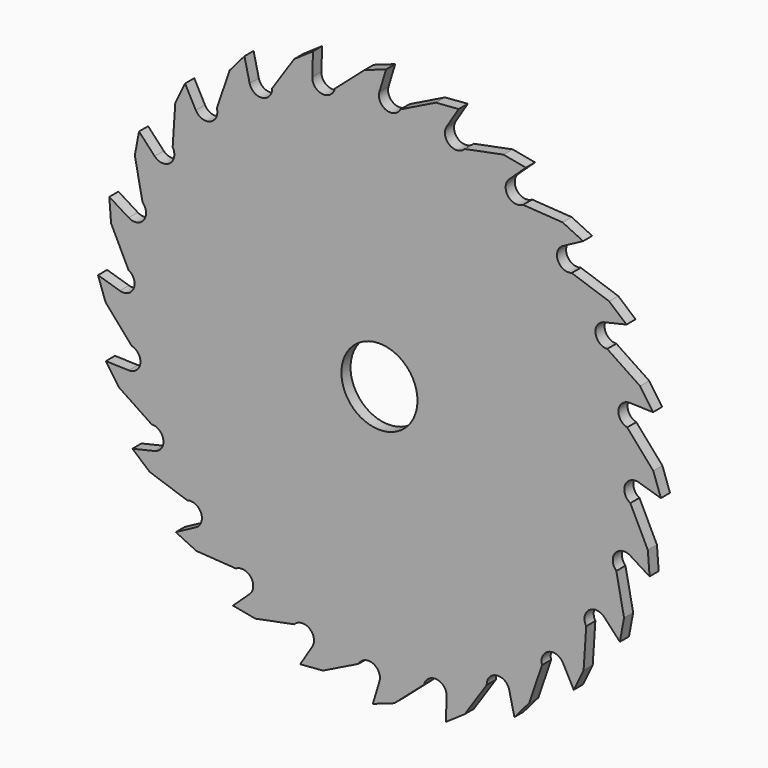
from build123d import *

# Parameters (mm, degrees)
F0_R     = 10
F1_DEPTH = 3


with BuildPart() as f1:
    # F0 (on Front) → F1 (new body)
    with BuildSketch(Plane.XZ):
        with BuildLine():
            Line((-3.915787, 72.004935), (-11.747279, 65.150152))
            ThreePointArc((-11.747279, 65.150152), (-15.061523, 62.859987), (-17.66665, 65.932834))
            Line((-17.66665, 65.932834), (-17.469185, 71.929583))
            Line((-17.469185, 71.929583), (-22.418608, 68.537946))
            Line((-22.418608, 68.537946), (-28.209101, 59.889795))
            ThreePointArc((-28.209101, 59.889795), (-30.817676, 56.819876), (-34.129346, 59.113761))
            Line((-34.129346, 59.113761), (-35.490683, 64.957285))
            Line((-35.490683, 64.957285), (-39.393639, 60.400209))
            Line((-39.393639, 60.400209), (-42.748518, 50.548047))
            ThreePointArc((-42.748518, 50.548047), (-44.473655, 46.907584), (-48.266184, 48.266184))
            Line((-48.266184, 48.266184), (-51.093549, 53.558254))
            Line((-51.093549, 53.558254), (-53.684057, 48.146298))
            Line((-53.684057, 48.146298), (-54.374695, 37.761533))
            ThreePointArc((-54.374695, 37.761533), (-55.098828, 33.798618), (-59.113761, 34.129346))
            Line((-59.113761, 34.129346), (-63.214475, 38.509317))
            Line((-63.214475, 38.509317), (-64.315996, 32.611296))
            Line((-64.315996, 32.611296), (-62.295326, 22.401634))
            ThreePointArc((-62.295326, 22.401634), (-61.969107, 18.386332), (-65.932834, 17.66665))
            Line((-65.932834, 17.66665), (-71.027439, 20.836034))
            Line((-71.027439, 20.836034), (-70.564907, 14.853889))
            Line((-70.564907, 14.853889), (-65.970634, 5.5151))
            ThreePointArc((-65.970634, 5.5151), (-64.616294, 1.721047), (-68.258692, 0))
            Line((-68.258692, 0), (-74, 1.742809))
            Line((-74, 1.742809), (-72.004935, -3.915787))
            Line((-72.004935, -3.915787), (-65.150152, -11.747279))
            ThreePointArc((-65.150152, -11.747279), (-62.859987, -15.061523), (-65.932834, -17.66665))
            Line((-65.932834, -17.66665), (-71.929583, -17.469185))
            Line((-71.929583, -17.469185), (-68.537946, -22.418608))
            Line((-68.537946, -22.418608), (-59.889795, -28.209101))
            ThreePointArc((-59.889795, -28.209101), (-56.819876, -30.817676), (-59.113761, -34.129346))
            Line((-59.113761, -34.129346), (-64.957285, -35.490683))
            Line((-64.957285, -35.490683), (-60.400209, -39.393639))
            Line((-60.400209, -39.393639), (-50.548047, -42.748518))
            ThreePointArc((-50.548047, -42.748518), (-46.907584, -44.473655), (-48.266184, -48.266184))
            Line((-48.266184, -48.266184), (-53.558254, -51.093549))
            Line((-53.558254, -51.093549), (-48.146298, -53.684057))
            Line((-48.146298, -53.684057), (-37.761533, -54.374695))
            ThreePointArc((-37.761533, -54.374695), (-33.798618, -55.098828), (-34.129346, -59.113761))
            Line((-34.129346, -59.113761), (-38.509317, -63.214475))
            Line((-38.509317, -63.214475), (-32.611296, -64.315996))
            Line((-32.611296, -64.315996), (-22.401634, -62.295326))
            ThreePointArc((-22.401634, -62.295326), (-18.386332, -61.969107), (-17.66665, -65.932834))
            Line((-17.66665, -65.932834), (-20.836034, -71.027439))
            Line((-20.836034, -71.027439), (-14.853889, -70.564907))
            Line((-14.853889, -70.564907), (-5.5151, -65.970634))
            ThreePointArc((-5.5151, -65.970634), (-1.721047, -64.616294), (0, -68.258692))
            Line((0, -68.258692), (-1.742809, -74))
            Line((-1.742809, -74), (3.915787, -72.004935))
            Line((3.915787, -72.004935), (11.747279, -65.150152))
            ThreePointArc((11.747279, -65.150152), (15.061523, -62.859987), (17.66665, -65.932834))
            Line((17.66665, -65.932834), (17.469185, -71.929583))
            Line((17.469185, -71.929583), (22.418608, -68.537946))
            Line((22.418608, -68.537946), (28.209101, -59.889795))
            ThreePointArc((28.209101, -59.889795), (30.817676, -56.819876), (34.129346, -59.113761))
            Line((34.129346, -59.113761), (35.490683, -64.957285))
            Line((35.490683, -64.957285), (39.393639, -60.400209))
            Line((39.393639, -60.400209), (42.748518, -50.548047))
            ThreePointArc((42.748518, -50.548047), (44.473655, -46.907584), (48.266184, -48.266184))
            Line((48.266184, -48.266184), (51.093549, -53.558254))
            Line((51.093549, -53.558254), (53.684057, -48.146298))
            Line((53.684057, -48.146298), (54.374695, -37.761533))
            ThreePointArc((54.374695, -37.761533), (55.098828, -33.798618), (59.113761, -34.129346))
            Line((59.113761, -34.129346), (63.214475, -38.509317))
            Line((63.214475, -38.509317), (64.315996, -32.611296))
            Line((64.315996, -32.611296), (62.295326, -22.401634))
            ThreePointArc((62.295326, -22.401634), (61.969107, -18.386332), (65.932834, -17.66665))
            Line((65.932834, -17.66665), (71.027439, -20.836034))
            Line((71.027439, -20.836034), (70.564907, -14.853889))
            Line((70.564907, -14.853889), (65.970634, -5.5151))
            ThreePointArc((65.970634, -5.5151), (64.616294, -1.721047), (68.258692, 0))
            Line((68.258692, 0), (74, -1.742809))
            Line((74, -1.742809), (72.004935, 3.915787))
            Line((72.004935, 3.915787), (65.150152, 11.747279))
            ThreePointArc((65.150152, 11.747279), (62.859987, 15.061523), (65.932834, 17.66665))
            Line((65.932834, 17.66665), (71.929583, 17.469185))
            Line((71.929583, 17.469185), (68.537946, 22.418608))
            Line((68.537946, 22.418608), (59.889795, 28.209101))
            ThreePointArc((59.889795, 28.209101), (56.819876, 30.817676), (59.113761, 34.129346))
            Line((59.113761, 34.129346), (64.957285, 35.490683))
            Line((64.957285, 35.490683), (60.400209, 39.393639))
            Line((60.400209, 39.393639), (50.548047, 42.748518))
            ThreePointArc((50.548047, 42.748518), (46.907584, 44.473655), (48.266184, 48.266184))
            Line((48.266184, 48.266184), (53.558254, 51.093549))
            Line((53.558254, 51.093549), (48.146298, 53.684057))
            Line((48.146298, 53.684057), (37.761533, 54.374695))
            ThreePointArc((37.761533, 54.374695), (33.798618, 55.098828), (34.129346, 59.113761))
            Line((34.129346, 59.113761), (38.509317, 63.214475))
            Line((38.509317, 63.214475), (32.611296, 64.315996))
            Line((32.611296, 64.315996), (22.401634, 62.295326))
            ThreePointArc((22.401634, 62.295326), (18.386332, 61.969107), (17.66665, 65.932834))
            Line((17.66665, 65.932834), (20.836034, 71.027439))
            Line((20.836034, 71.027439), (14.853889, 70.564907))
            Line((14.853889, 70.564907), (5.5151, 65.970634))
            ThreePointArc((5.5151, 65.970634), (1.721047, 64.616294), (0, 68.258692))
            Line((0, 68.258692), (1.742809, 74))
            Line((1.742809, 74), (-3.915787, 72.004935))
        make_face()
        Circle(F0_R, mode=Mode.SUBTRACT)
    extrude(amount=F1_DEPTH)


solid = f1.part
